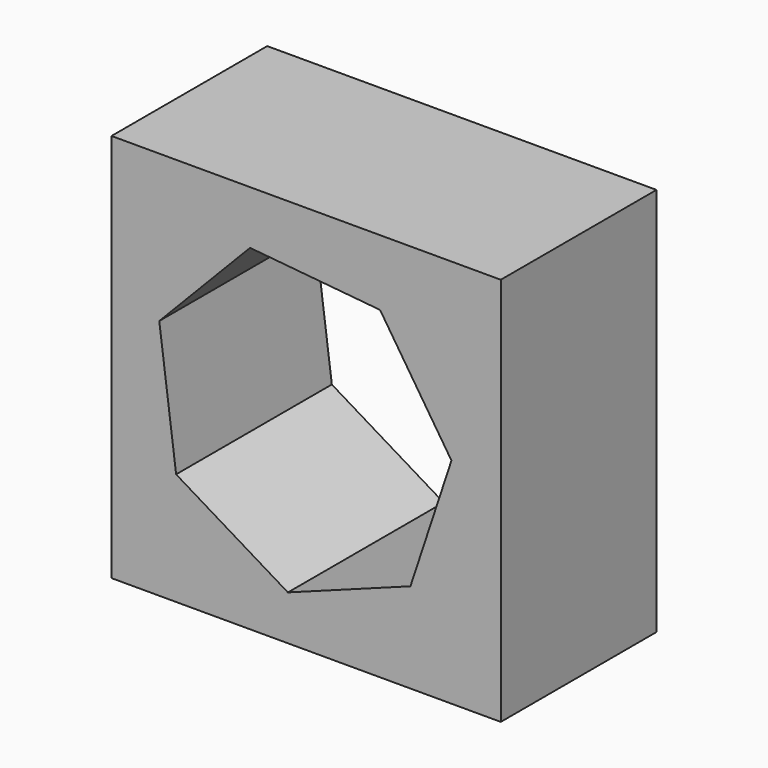
from build123d import *

# Parameters (mm, degrees)
F0_W     = 50.8
F0_H     = 50.8
F0_R     = 22.86
F1_DEPTH = 25.4


with BuildPart() as f1:
    # F0 (on Front) → F1 (new body)
    with BuildSketch(Plane.XZ):
        with Locations((2.843652, 0)):
            Rectangle(F0_W, F0_H)
        with Locations((2.326624, 0)):
            Circle(F0_R, mode=Mode.SUBTRACT)
        with Locations((2.326624, 0)):
            Circle(F0_R)
        Polygon((12.491016, 16.810035), (21.806633, 2.534044), (16.453406, -13.650134), (0.462424, -19.555482), (-14.124778, -10.735154), (-16.323738, 6.168965), (-4.478596, 18.427727), align=None, mode=Mode.SUBTRACT)
    extrude(amount=F1_DEPTH)


solid = f1.part
